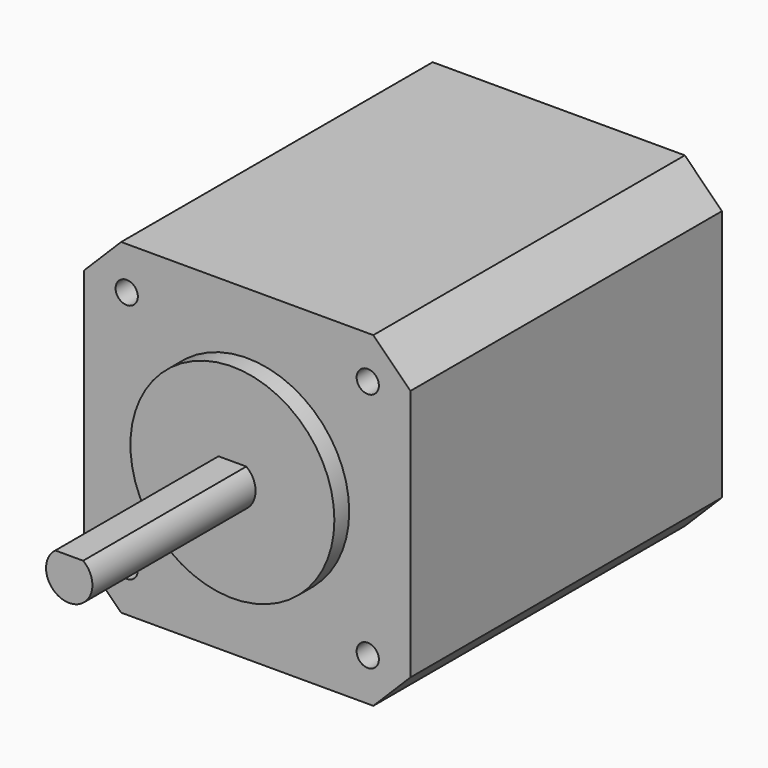
from build123d import *

# Parameters (mm, degrees)
F0_W     = 35.2
F0_H     = 35.2
F1_DEPTH = 42
F2_R     = 11
F3_DEPTH = 2
F5_DEPTH = 22
F7_D     = 2.4
F7_DEPTH = 4.5
F7_TIP   = 0.7210327428
F8_SIZE  = 4


with BuildPart() as f1:
    # F0 (on Front) → F1 (new body)
    with BuildSketch(Plane.XZ):
        Rectangle(F0_W, F0_H)
    extrude(amount=-F1_DEPTH)

    # F2 (on Front) → F3 (join)
    with BuildSketch(Plane.XZ):
        Circle(F2_R)
    extrude(amount=F3_DEPTH)

    # F4 (on face) → F5 (join)
    with BuildSketch(Plane.XZ.offset(2)):
        with BuildLine():
            Line((1.5, 2), (-1.5, 2))
            ThreePointArc((-1.5, 2), (0, -2.5), (1.5, 2))
        make_face()
    extrude(amount=F5_DEPTH)

    # F7
    with Locations(Plane.XZ):
        with Locations((-13, 13), (13, 13), (13, -13), (-13, -13)):
            Hole(F7_D / 2, depth=F7_DEPTH)
            with Locations((0, 0, -(F7_DEPTH + F7_TIP / 2))):  # 118° drill point
                Cone(0, F7_D / 2, F7_TIP, mode=Mode.SUBTRACT)

    # F8
    f8_edges = [f1.edges().sort_by_distance(p)[0] for p in [
        (-17.6, 21, 17.6),
        (-17.6, 21, -17.6),
        (17.6, 21, -17.6),
        (17.6, 21, 17.6),
    ]]
    chamfer(f8_edges, length=F8_SIZE)


solid = f1.part
